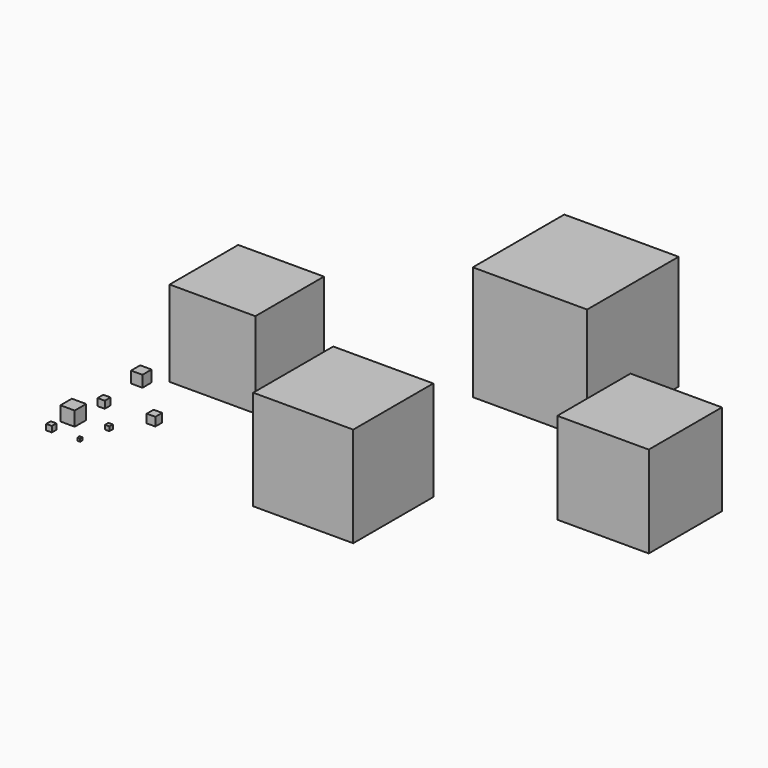
from build123d import *

# Parameters (mm, degrees)
F0_W      = 2
F0_H      = 2
F2_DEPTH  = 2
F1_W      = 5
F1_H      = 5
F3_DEPTH  = 5
F6_W      = 2.5
F6_H      = 2.5
F9_DEPTH  = 2.5
F8_W      = 4
F8_H      = 4
F10_DEPTH = 4
F7_W      = 3
F7_H      = 3
F11_DEPTH = 3
F5_W      = 1.5
F5_H      = 1.5
F12_DEPTH = 1.5
F4_W      = 1
F4_H      = 1
F13_DEPTH = 1
F14_W     = 30
F14_H     = 30
F15_DEPTH = 30
F16_W     = 40
F16_H     = 40
F17_DEPTH = 40
F18_W     = 35
F18_H     = 35
F19_DEPTH = 35
F20_W     = 32
F20_H     = 32
F21_DEPTH = 32


with BuildPart() as f2:
    # F0 (on Top) → F2 (new body)
    with BuildSketch(Plane.XY):
        with Locations((-71.25775, -68.46791)):
            Rectangle(F0_W, F0_H)
    extrude(amount=F2_DEPTH)


with BuildPart() as f3:
    # F1 (on Top) → F3 (new body)
    with BuildSketch(Plane.XY):
        with Locations((-69.980761, -60.423461)):
            Rectangle(F1_W, F1_H)
    extrude(amount=F3_DEPTH)


with BuildPart() as f9:
    # F6 (on Top) → F9 (new body)
    with BuildSketch(Plane.XY):
        with Locations((-68.957002, -48.23774)):
            Rectangle(F6_W, F6_H)
    extrude(amount=F9_DEPTH)


with BuildPart() as f10:
    # F8 (on Top) → F10 (new body)
    with BuildSketch(Plane.XY):
        with Locations((-69.435324, -31.337213)):
            Rectangle(F8_W, F8_H)
    extrude(amount=F10_DEPTH)


with BuildPart() as f11:
    # F7 (on Top) → F11 (new body)
    with BuildSketch(Plane.XY):
        with Locations((-51.856958, -47.566883)):
            Rectangle(F7_W, F7_H)
    extrude(amount=F11_DEPTH)


with BuildPart() as f12:
    # F5 (on Top) → F12 (new body)
    with BuildSketch(Plane.XY):
        with Locations((-59.194355, -58.317369)):
            Rectangle(F5_W, F5_H)
    extrude(amount=F12_DEPTH)


with BuildPart() as f13:
    # F4 (on Top) → F13 (new body)
    with BuildSketch(Plane.XY):
        with Locations((-61.248402, -68.427556)):
            Rectangle(F4_W, F4_H)
    extrude(amount=F13_DEPTH)


with BuildPart() as f15:
    # F14 (on Top) → F15 (new body)
    with BuildSketch(Plane.XY):
        with Locations((-48.818811, -10.989797)):
            Rectangle(F14_W, F14_H)
    extrude(amount=F15_DEPTH)


with BuildPart() as f17:
    # F16 (on Top) → F17 (new body)
    with BuildSketch(Plane.XY):
        with Locations((26.51285, 38.70328)):
            Rectangle(F16_W, F16_H)
    extrude(amount=F17_DEPTH)


with BuildPart() as f19:
    # F18 (on Top) → F19 (new body)
    with BuildSketch(Plane.XY):
        with Locations((17.5, -51.70328)):
            Rectangle(F18_W, F18_H)
    extrude(amount=F19_DEPTH)


with BuildPart() as f21:
    # F20 (on Top) → F21 (new body)
    with BuildSketch(Plane.XY):
        with Locations((85.824582, -7.487307)):
            Rectangle(F20_W, F20_H)
    extrude(amount=F21_DEPTH)


solid = Compound([f2.part, f3.part, f9.part, f10.part, f11.part, f12.part, f13.part, f15.part, f17.part, f19.part, f21.part])
